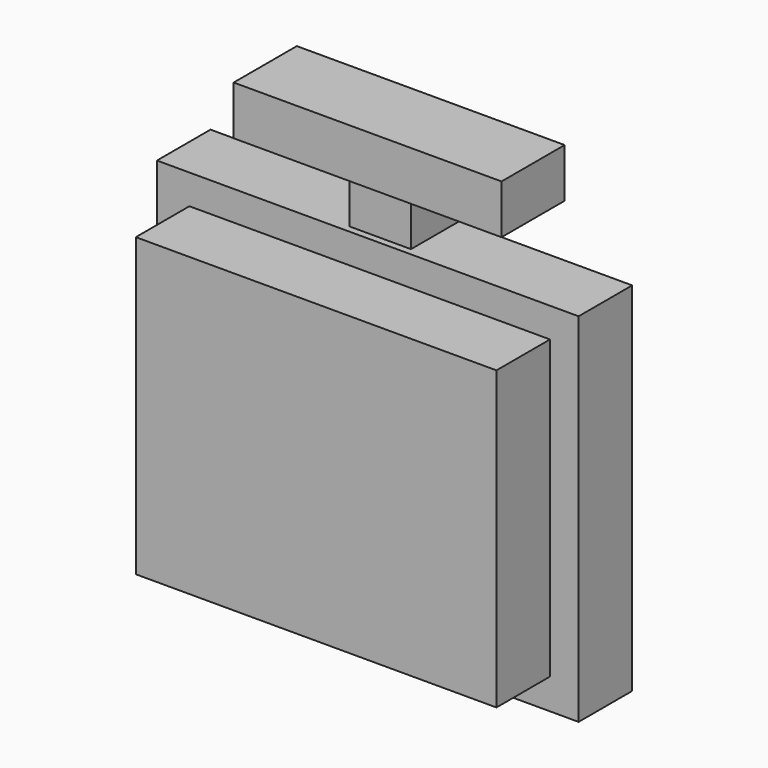
from build123d import *

# Parameters (mm, degrees)
F0_W     = 159.953385
F0_H     = 135.459002
F1_DEPTH = 25.4
F2_W     = 23.394922
F2_H     = 22.785936
F3_DEPTH = 101.6
F4_W     = 29.928277
F4_H     = 18.628203
F5_DEPTH = 50.8
F6_W     = 136.795349
F6_H     = 112.584971
F7_DEPTH = 50.8
F8_W     = 29.928277
F8_H     = 18.628203
F9_DEPTH = 50.8


with BuildPart() as f1:
    # F0 (on Front) → F1 (new body)
    with BuildSketch(Plane.XZ):
        with Locations((-0.262774, 11.529313)):
            Rectangle(F0_W, F0_H)
    extrude(amount=F1_DEPTH)

    # F2 (on Top) → F3 (join)
    with BuildSketch(Plane.XY):
        with Locations((2.348405, -11.392968)):
            Rectangle(F2_W, F2_H)
    extrude(amount=F3_DEPTH)

    # F4 (on Right) → F5 (join)
    with BuildSketch(Plane.YZ):
        with Locations((-10.842666, 105.735038)):
            Rectangle(F4_W, F4_H)
    extrude(amount=F5_DEPTH)

    # F6 (on Front) → F7 (join)
    with BuildSketch(Plane.XZ):
        with Locations((0.471081, 11.709642)):
            Rectangle(F6_W, F6_H)
    extrude(amount=F7_DEPTH)

    # F8 (on face) → F9 (join)
    with BuildSketch(Plane(origin=(0, 0, 0), x_dir=(0, -1, 0), z_dir=(-1, 0, 0))):
        with Locations((10.842666, 105.735038)):
            Rectangle(F8_W, F8_H)
    extrude(amount=F9_DEPTH)


solid = f1.part
